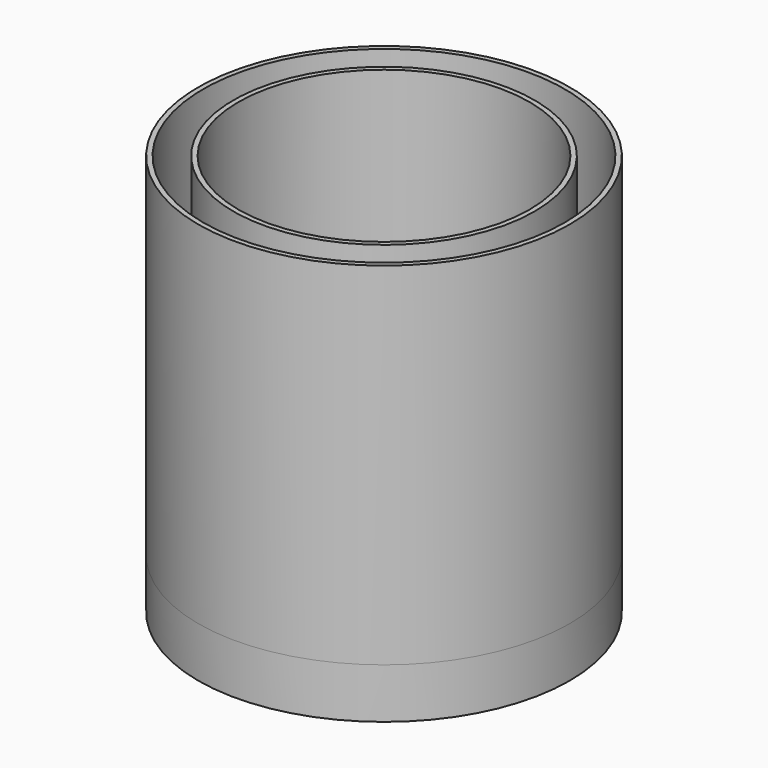
from build123d import *

# Parameters (mm, degrees)
F0_R     = 46.99
F0_R_2   = 45.72
F1_DEPTH = 101.6
F2_R     = 38.1
F2_R_2   = 36.83
F3_DEPTH = 101.6
F4_R     = 46.99
F5_DEPTH = 12.7


with BuildPart() as f1:
    # F0 (on Top) → F1 (new body)
    with BuildSketch(Plane.XY):
        Circle(F0_R)
        Circle(F0_R_2, mode=Mode.SUBTRACT)
    extrude(amount=F1_DEPTH)


with BuildPart() as f3:
    # F2 (on Top) → F3 (new body)
    with BuildSketch(Plane.XY):
        Circle(F2_R)
        Circle(F2_R_2, mode=Mode.SUBTRACT)
    extrude(amount=F3_DEPTH)


with BuildPart() as f5:
    # F4 (on Top) → F5 (new body)
    with BuildSketch(Plane.XY):
        Circle(F4_R)
    extrude(amount=F5_DEPTH)


solid = Compound([f1.part, f3.part, f5.part])
